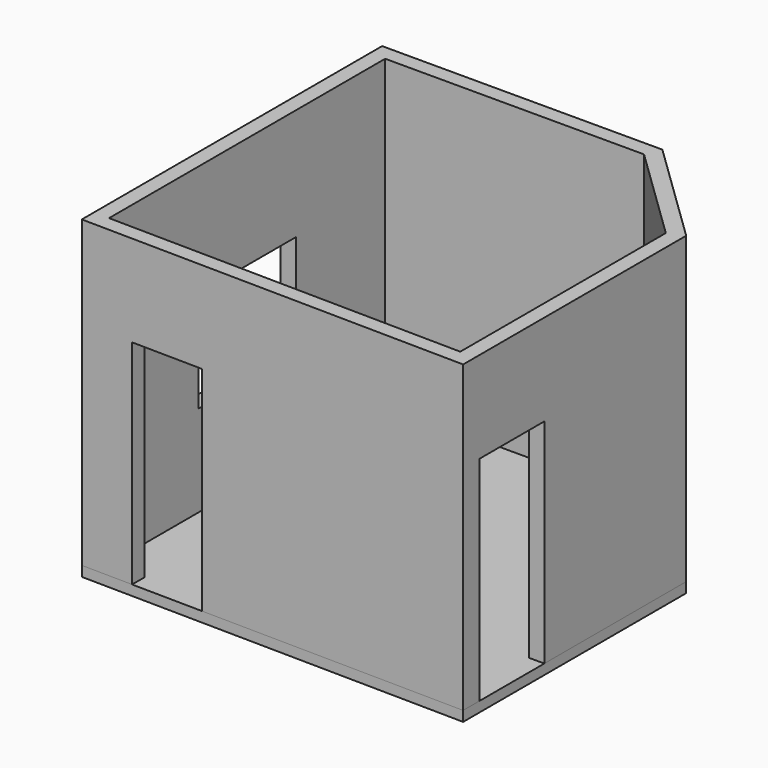
from build123d import *

# Parameters (mm, degrees)
F1_DEPTH = 100
F3_DEPTH = 3000
F4_W     = 700
F4_H     = 2100
F5_DEPTH = 150
F6_W     = 800
F6_H     = 2100
F7_DEPTH = 150
F8_W     = 1200
F8_H     = 1000
F9_DEPTH = 150


with BuildPart() as f1:
    # F0 (on Top) → F1 (new body)
    with BuildSketch(Plane.XY):
        Polygon((1648.7238958032, 816.8053367971), (609.7675009533, 1822.0548629761), (-2150.9207091177, 1822.0548629761), (-2150.9207091177, -1875.8225996028), (1648.7238958032, -1929.9743792834), align=None)
    extrude(amount=F1_DEPTH)


with BuildPart() as f3:
    # F2 (on face) → F3 (new body)
    with BuildSketch(Plane.XY.offset(100)):
        Polygon((609.7675009533, 1822.0548629761), (-2150.9207091177, 1822.0548629761), (-2150.9207091177, -1875.8225996028), (1648.7238958032, -1929.9743792834), (1648.7238958032, 816.8053367971), align=None)
        Polygon((-2000.9207091177, -1727.9451370239), (-2000.9207091177, 1672.0548629761), (549.0792908823, 1672.0548629761), (1498.7238958032, 753.2195837793), (1498.7238958032, -1777.8213763335), align=None, mode=Mode.SUBTRACT)
    extrude(amount=F3_DEPTH)

    # F4 (on face) → F5 (cut, through all)
    with BuildSketch(Plane(origin=(-27.1652149759, -1906.0899407813, 0), x_dir=(0.9998984585, -0.0142503541, 0), z_dir=(-0.0142503541, -0.9998984585, 0))):
        with Locations((-1273.9711652562, 1150)):
            Rectangle(F4_W, F4_H)
    extrude(amount=-F5_DEPTH, mode=Mode.SUBTRACT)

    # F6 (on face) → F7 (cut, through all)
    with BuildSketch(Plane.YZ.offset(1648.7238958032)):
        with Locations((-1329.9743792834, 1150)):
            Rectangle(F6_W, F6_H)
    extrude(amount=-F7_DEPTH, mode=Mode.SUBTRACT)

    # F8 (on face) → F9 (cut, through all)
    with BuildSketch(Plane(origin=(-2150.9207091177, 0, 0), x_dir=(0, -1, 0), z_dir=(-1, 0, 0))):
        with Locations((27.9451370239, 1500)):
            Rectangle(F8_W, F8_H)
    extrude(amount=-F9_DEPTH, mode=Mode.SUBTRACT)


solid = Compound([f1.part, f3.part])
